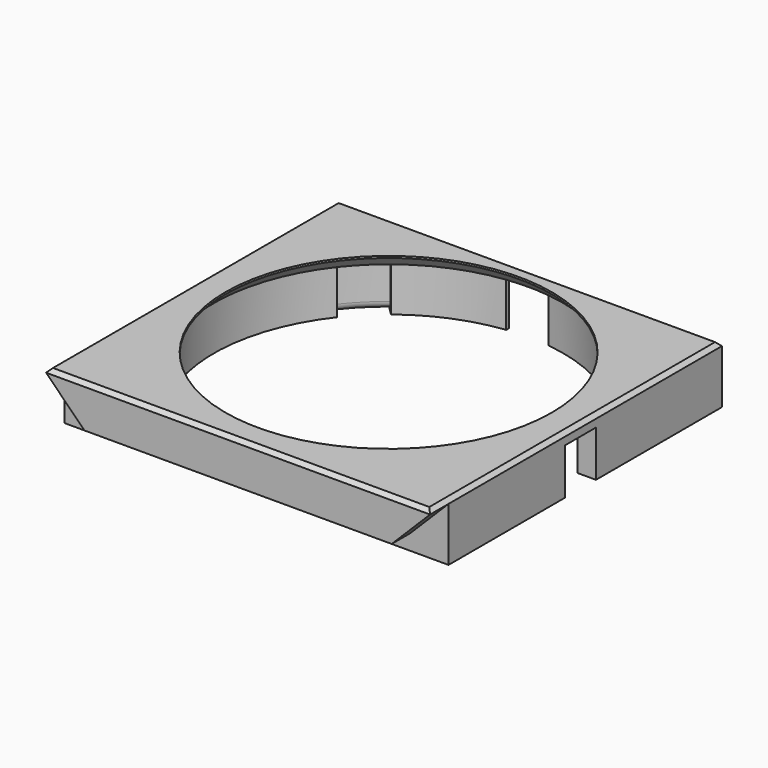
from build123d import *

# Parameters (mm, degrees)
CYLINDER011_R                = 2
CYLINDER011_DEPTH            = 7
CYLINDER010_R                = 2
CYLINDER010_DEPTH            = 7
CYLINDER009_R                = 2
CYLINDER009_DEPTH            = 7
CYLINDER012_R                = 2
CYLINDER012_DEPTH            = 7
BOX021_W                     = 12
BOX021_H                     = 6
BOX021_DEPTH                 = 16
CHAMFER005_SIZE              = 11
BOX020_W                     = 12
BOX020_H                     = 6
BOX020_DEPTH                 = 16
CHAMFER004_SIZE              = 11
BOX018_W                     = 17
BOX018_H                     = 10
BOX018_DEPTH                 = 12
BOX017_W                     = 11
BOX017_H                     = 10
BOX017_DEPTH                 = 11.5
BOX004_W                     = 10
BOX004_H                     = 11
BOX004_DEPTH                 = 11.5
BOX005_W                     = 10
BOX005_H                     = 11
BOX005_DEPTH                 = 11.5
BOX006_W                     = 11
BOX006_H                     = 10
BOX006_DEPTH                 = 11.5
BOX007_W                     = 11
BOX007_H                     = 10
BOX007_DEPTH                 = 11.5
CYLINDER004_R                = 46
CYLINDER004_DEPTH            = 15
COMMON_PLACEMENT_ANGLE       = 45
CYLINDER_R                   = 45.5
CYLINDER_DEPTH               = 15
CHAMFER_SIZE                 = 3.5
CYLINDER002_R                = 42.5
CYLINDER002_DEPTH            = 21
BOX_W                        = 11
BOX_H                        = 15
BOX_DEPTH                    = 0.75
BOX001_W                     = 11
BOX001_H                     = 15
BOX001_DEPTH                 = 0.75
BOX002_W                     = 15
BOX002_H                     = 11
BOX002_DEPTH                 = 0.75
BOX003_W                     = 15
BOX003_H                     = 11
BOX003_DEPTH                 = 0.75
FUSION002003_PLACEMENT_ANGLE = 45
FILLET_R                     = 2
BOX016_W                     = 100
BOX016_H                     = 6
BOX016_DEPTH                 = 11
BOX015_W                     = 100
BOX015_H                     = 89
BOX015_DEPTH                 = 15
CHAMFER006_SIZE              = 1
CHAMFER019_SIZE              = 0.4


with BuildPart() as cylinder011:
    # Cylinder011 → Cylinder011 (new body)
    with BuildSketch(Plane(origin=(-44, 27, 0), x_dir=(1, 0, 0), z_dir=(0, 0, 1))):
        Circle(CYLINDER011_R)
    extrude(amount=CYLINDER011_DEPTH)


with BuildPart() as cylinder010:
    # Cylinder010 → Cylinder010 (new body)
    with BuildSketch(Plane(origin=(-44, -27, 0), x_dir=(1, 0, 0), z_dir=(0, 0, 1))):
        Circle(CYLINDER010_R)
    extrude(amount=CYLINDER010_DEPTH)


with BuildPart() as cylinder009:
    # Cylinder009 → Cylinder009 (new body)
    with BuildSketch(Plane(origin=(44, -27, 0), x_dir=(1, 0, 0), z_dir=(0, 0, 1))):
        Circle(CYLINDER009_R)
    extrude(amount=CYLINDER009_DEPTH)


with BuildPart() as fusion002003010:
    # Cylinder012 → Cylinder012 (new body)
    with BuildSketch(Plane(origin=(44, 27, 0), x_dir=(1, 0, 0), z_dir=(0, 0, 1))):
        Circle(CYLINDER012_R)
    extrude(amount=CYLINDER012_DEPTH)

    # Fusion002003010: union Cylinder011, Cylinder010, Cylinder009
    add(cylinder011.part)
    add(cylinder010.part)
    add(cylinder009.part)


with BuildPart() as chamfer005:
    # Box021 → Box021 (new body)
    with BuildSketch(Plane(origin=(39, -49, -1), x_dir=(1, 0, 0), z_dir=(0, 0, 1))):
        with Locations((6, 3)):
            Rectangle(BOX021_W, BOX021_H)
    extrude(amount=BOX021_DEPTH)

    # Chamfer005
    chamfer005_edges = [chamfer005.edges().sort_by_distance(p)[0] for p in [
        (39, -46, 15),
    ]]
    chamfer(chamfer005_edges, length=CHAMFER005_SIZE)


with BuildPart() as chamfer005_1:
    # Chamfer005 placement: moved
    add(chamfer005.part.moved(Location((1, 0, 0))))


with BuildPart() as fusion002003006:
    # Box020 → Box020 (new body)
    with BuildSketch(Plane(origin=(-51, -49, -1), x_dir=(1, 0, 0), z_dir=(0, 0, 1))):
        with Locations((6, 3)):
            Rectangle(BOX020_W, BOX020_H)
    extrude(amount=BOX020_DEPTH)

    # Chamfer004
    chamfer004_edges = [fusion002003006.edges().sort_by_distance(p)[0] for p in [
        (-39, -46, 15),
    ]]
    chamfer(chamfer004_edges, length=CHAMFER004_SIZE)


with BuildPart() as fusion002003006_1:
    # Chamfer004 placement: moved
    add(fusion002003006.part.moved(Location((-1, 0, 0))))

    # Fusion002003006: union Chamfer005
    add(chamfer005_1.part)


with BuildPart() as cube018:
    # Box018 → Box018 (new body)
    with BuildSketch(Plane(origin=(40, -5, 0), x_dir=(1, 0, 0), z_dir=(0, 0, 1))):
        with Locations((8.5, 5)):
            Rectangle(BOX018_W, BOX018_H)
    extrude(amount=BOX018_DEPTH)


with BuildPart() as fusion002003005:
    # Box017 → Box017 (new body)
    with BuildSketch(Plane(origin=(-5.5, 40, 0), x_dir=(1, 0, 0), z_dir=(0, 0, 1))):
        with Locations((5.5, 5)):
            Rectangle(BOX017_W, BOX017_H)
    extrude(amount=BOX017_DEPTH)

    # Fusion002003005: union Cube018
    add(cube018.part)


with BuildPart() as cube004:
    # Box004 → Box004 (new body)
    with BuildSketch(Plane(origin=(-50, -5.5, 0), x_dir=(1, 0, 0), z_dir=(0, 0, 1))):
        with Locations((5, 5.5)):
            Rectangle(BOX004_W, BOX004_H)
    extrude(amount=BOX004_DEPTH)


with BuildPart() as cube005:
    # Box005 → Box005 (new body)
    with BuildSketch(Plane(origin=(40, -5.5, 0), x_dir=(1, 0, 0), z_dir=(0, 0, 1))):
        with Locations((5, 5.5)):
            Rectangle(BOX005_W, BOX005_H)
    extrude(amount=BOX005_DEPTH)


with BuildPart() as cube006:
    # Box006 → Box006 (new body)
    with BuildSketch(Plane(origin=(-5.5, -50, 0), x_dir=(1, 0, 0), z_dir=(0, 0, 1))):
        with Locations((5.5, 5)):
            Rectangle(BOX006_W, BOX006_H)
    extrude(amount=BOX006_DEPTH)


with BuildPart() as fusion002004:
    # Box007 → Box007 (new body)
    with BuildSketch(Plane(origin=(-5.5, 40, 0), x_dir=(1, 0, 0), z_dir=(0, 0, 1))):
        with Locations((5.5, 5)):
            Rectangle(BOX007_W, BOX007_H)
    extrude(amount=BOX007_DEPTH)

    # Fusion002004: union Cube004, Cube005, Cube006
    add(cube004.part)
    add(cube005.part)
    add(cube006.part)


with BuildPart() as common:
    # Cylinder004 → Cylinder004 (new body)
    with BuildSketch(Plane.XY):
        Circle(CYLINDER004_R)
    extrude(amount=CYLINDER004_DEPTH)

    # Common: intersect Fusion002004
    add(fusion002004.part, mode=Mode.INTERSECT)


with BuildPart() as common_1:
    # Common placement: moved
    add(common.part.rotate(Axis((0, 0, 0), (0, 0, -1)), COMMON_PLACEMENT_ANGLE))


with BuildPart() as chamfer_body:
    # Cylinder → Cylinder (new body)
    with BuildSketch(Plane.XY):
        Circle(CYLINDER_R)
    extrude(amount=CYLINDER_DEPTH)

    # Chamfer
    chamfer_edges = [chamfer_body.edges().sort_by_distance(p)[0] for p in [
        (-45.5, 0, 15),
    ]]
    chamfer(chamfer_edges, length=CHAMFER_SIZE)


with BuildPart() as cylinder002:
    # Cylinder002 → Cylinder002 (new body)
    with BuildSketch(Plane.XY):
        Circle(CYLINDER002_R)
    extrude(amount=CYLINDER002_DEPTH)


with BuildPart() as cube:
    # Box → Box (new body)
    with BuildSketch(Plane(origin=(-5.5, 40, 0), x_dir=(1, 0, 0), z_dir=(0, 0, 1))):
        with Locations((5.5, 7.5)):
            Rectangle(BOX_W, BOX_H)
    extrude(amount=BOX_DEPTH)


with BuildPart() as cube001:
    # Box001 → Box001 (new body)
    with BuildSketch(Plane(origin=(-5.5, -55, 0), x_dir=(1, 0, 0), z_dir=(0, 0, 1))):
        with Locations((5.5, 7.5)):
            Rectangle(BOX001_W, BOX001_H)
    extrude(amount=BOX001_DEPTH)


with BuildPart() as cube002:
    # Box002 → Box002 (new body)
    with BuildSketch(Plane(origin=(40, -5.5, 0), x_dir=(1, 0, 0), z_dir=(0, 0, 1))):
        with Locations((7.5, 5.5)):
            Rectangle(BOX002_W, BOX002_H)
    extrude(amount=BOX002_DEPTH)


with BuildPart() as fillet_body:
    # Box003 → Box003 (new body)
    with BuildSketch(Plane(origin=(-55, -5.5, 0), x_dir=(1, 0, 0), z_dir=(0, 0, 1))):
        with Locations((7.5, 5.5)):
            Rectangle(BOX003_W, BOX003_H)
    extrude(amount=BOX003_DEPTH)

    # Fusion002003: union Cube, Cube001, Cube002
    add(cube.part)
    add(cube001.part)
    add(cube002.part)


with BuildPart() as fillet_body_1:
    # Fusion002003 placement: moved
    add(fillet_body.part.rotate(Axis((0, 0, 0), (0, 0, -1)), FUSION002003_PLACEMENT_ANGLE))

    # Fusion: union Common, Chamfer body, Cylinder002
    add(common_1.part)
    add(chamfer_body.part)
    add(cylinder002.part)

    # Fillet
    fillet_edges = [fillet_body_1.edges().sort_by_distance(p)[0] for p in [
        (34.416566, -30.520485, 0.75),
        (30.520485, -34.416566, 0.75),
        (-32.526912, -32.526912, 0.75),
        (-32.526912, 32.526912, 0.75),
        (32.526912, 32.526912, 0.75),
    ]]
    fillet(fillet_edges, radius=FILLET_R)


with BuildPart() as cube016:
    # Box016 → Box016 (new body)
    with BuildSketch(Plane(origin=(-50, -49, 4), x_dir=(1, 0, 0), z_dir=(0, 0, 1))):
        with Locations((50, 3)):
            Rectangle(BOX016_W, BOX016_H)
    extrude(amount=BOX016_DEPTH)


with BuildPart() as center:
    # Box015 → Box015 (new body)
    with BuildSketch(Plane(origin=(-50, -43, 0), x_dir=(1, 0, 0), z_dir=(0, 0, 1))):
        with Locations((50, 44.5)):
            Rectangle(BOX015_W, BOX015_H)
    extrude(amount=BOX015_DEPTH)

    # Fusion002003004: union Cube016
    add(cube016.part)

    # Cut: cut Fillet body
    add(fillet_body_1.part, mode=Mode.SUBTRACT)

    # Cut001: cut Fusion002003005
    add(fusion002003005.part, mode=Mode.SUBTRACT)

    # Chamfer006
    chamfer006_edges = [center.edges().sort_by_distance(p)[0] for p in [
        (0, 46, 15),
        (50, -1.5, 15),
        (-50, -1.5, 15),
        (0, -49, 15),
    ]]
    chamfer(chamfer006_edges, length=CHAMFER006_SIZE)

    # Cut002: cut Fusion002003006
    add(fusion002003006_1.part, mode=Mode.SUBTRACT)

    # Cut005: cut Fusion002003010
    add(fusion002003010.part, mode=Mode.SUBTRACT)

    # Chamfer019
    chamfer019_edges = [center.edges().sort_by_distance(p)[0] for p in [
        (42, 27, 0),
        (-46, -27, 0),
        (-46, 27, 0),
        (42, -27, 0),
    ]]
    chamfer(chamfer019_edges, length=CHAMFER019_SIZE)


solid = center.part
